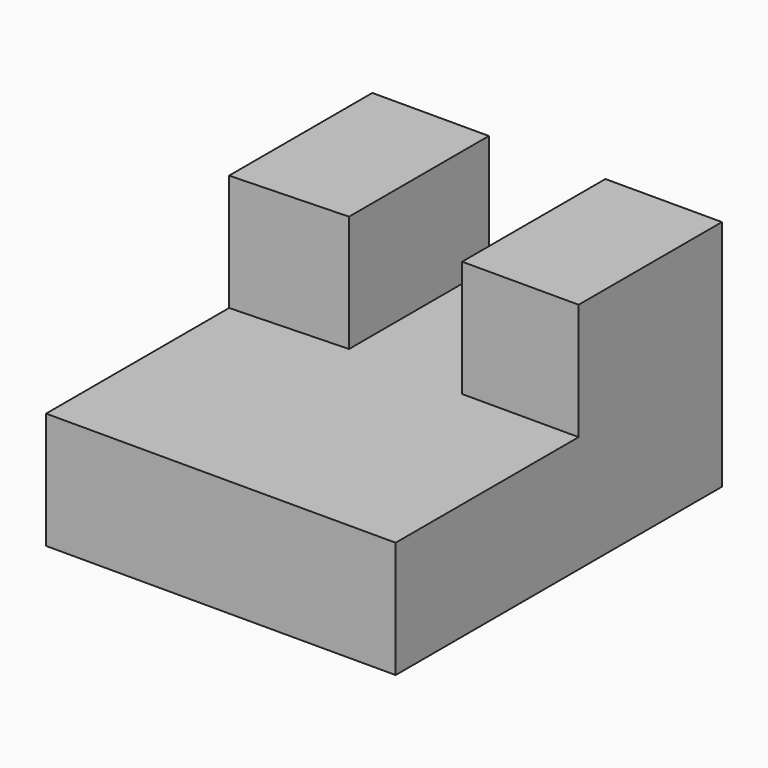
from build123d import *

# Parameters (mm, degrees)
F0_W     = 88.9
F0_H     = 25.4
F1_DEPTH = 76.2
F3_DEPTH = 25.4
F4_W     = 25.4
F4_H     = 39.036911
F5_DEPTH = 25.4


with BuildPart() as f1:
    # F0 (on Right) → F1 (new body)
    with BuildSketch(Plane.YZ):
        with Locations((-5.413089, -29.252115)):
            Rectangle(F0_W, F0_H)
    extrude(amount=F1_DEPTH)

    # F2 (on face) → F3 (join)
    with BuildSketch(Plane.XY.offset(-16.552115)):
        Polygon((25.4, 39.036911), (0, 39.036911), (0, 0), (25.4, 0.936911), align=None)
    extrude(amount=F3_DEPTH)

    # F4 (on face) → F5 (join)
    with BuildSketch(Plane.XY.offset(-16.552115)):
        with Locations((63.5, 19.518455)):
            Rectangle(F4_W, F4_H)
    extrude(amount=F5_DEPTH)


solid = f1.part
